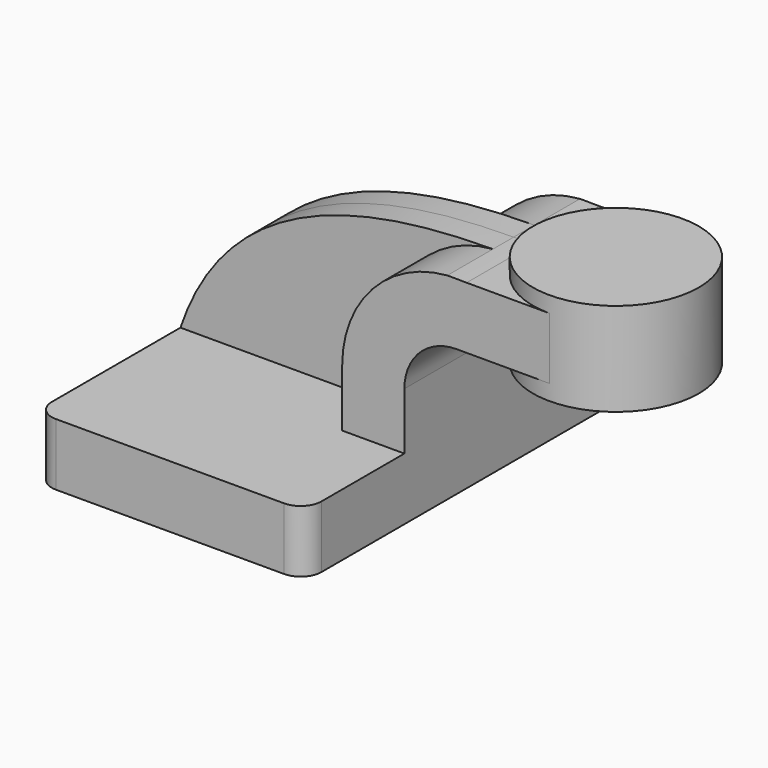
from build123d import *

# Parameters (mm, degrees)
F1_DEPTH = 63.5
F0_W     = 25.4
F0_H     = 18.905382
F2_DEPTH = 25.4
F3_DEPTH = 7.9375
F5_R     = 6.35


with BuildPart() as f1:
    # F0 (on Front) → F1 (new body, symmetric)
    with BuildSketch(Plane.XZ):
        Polygon((-41.275, -9.525), (41.275, -9.525), (41.275, 9.525), (22.225, 9.525), (-41.275, 9.525), align=None)
    extrude(amount=F1_DEPTH, both=True)

    # F0 (on Front) → F2 (join, symmetric)
    with BuildSketch(Plane.XZ):
        with BuildLine():
            Line((22.225, 9.525), (41.275, 9.525))
            Line((41.275, 9.525), (41.275, 27.0002))
            ThreePointArc((41.275, 27.0002), (45.92468, 38.22552), (57.15, 42.8752))
            Line((57.15, 42.8752), (60.325, 42.8752))
            Line((60.325, 42.8752), (60.325, 61.780582))
            add(Edge.make_bspline(
                [(54.418618, 61.818229), (56.398661, 61.826097), (58.368865, 61.812328), (60.325, 61.780582)],
                knots=[108.678024, 108.678024, 108.678024, 108.678024, 114.250628, 114.250628, 114.250628, 114.250628], degree=3))
            ThreePointArc((54.418618, 61.818229), (31.506783, 50.710557), (22.225, 27.0002))
            Line((22.225, 27.0002), (22.225, 9.525))
        make_face()
        with Locations((73.025, 52.327891)):
            Rectangle(F0_W, F0_H)
    extrude(amount=F2_DEPTH, both=True)

    # F0 (on Front) → F3 (join, symmetric)
    with BuildSketch(Plane.XZ):
        with BuildLine():
            add(Edge.make_bspline(
                [(-41.275, 9.525), (-26.553893, 53.282353), (15.803419, 61.664801), (54.418618, 61.818229)],
                knots=[0, 0, 0, 0, 108.678024, 108.678024, 108.678024, 108.678024], degree=3))
            Line((-41.275, 9.525), (22.225, 9.525))
            Line((22.225, 9.525), (22.225, 27.0002))
            ThreePointArc((22.225, 27.0002), (31.506783, 50.710557), (54.418618, 61.818229))
        make_face()
    extrude(amount=F3_DEPTH, both=True)

    # F0 (on Front) → F4 (revolve)
    with BuildSketch(Plane.XZ):
        Polygon((85.725, 66.675), (85.725, 61.780582), (85.725, 42.8752), (85.725, 38.1), (111.125, 38.1), (111.125, 66.675), align=None)
    revolve(axis=Axis((85.725, 0, 52.3875), (0, 0, 1)))

    # F5
    f5_edges = [f1.edges().sort_by_distance(p)[0] for p in [
        (41.275, -63.5, 0),
        (-41.275, -63.5, 0),
        (-41.275, 63.5, 0),
        (41.275, 63.5, 0),
    ]]
    fillet(f5_edges, radius=F5_R)


solid = f1.part
